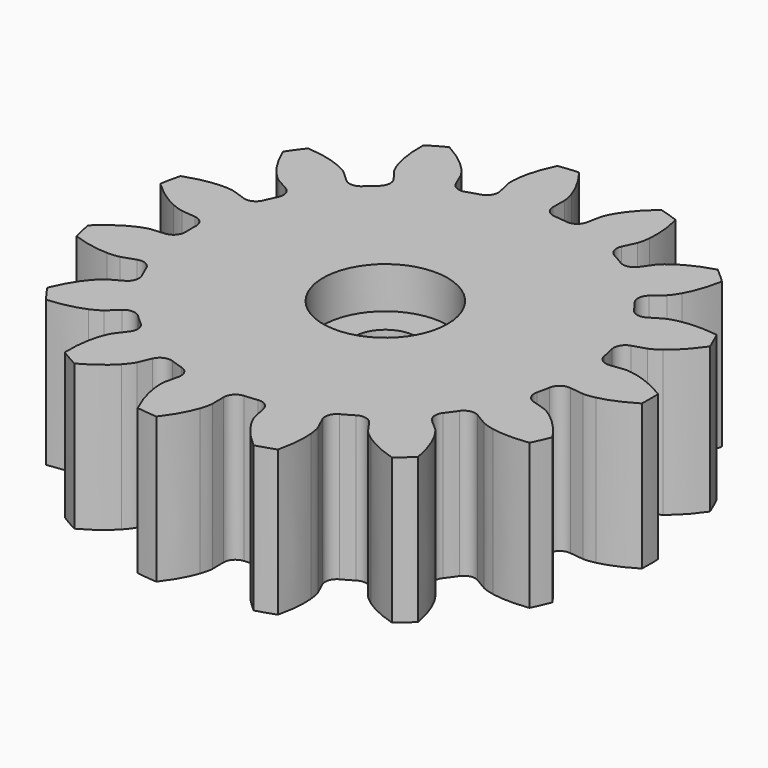
from build123d import *

# Parameters (mm, degrees)
CYLINDER001_R     = 3
CYLINDER001_DEPTH = 10
CYLINDER_R        = 2.5
CYLINDER_DEPTH    = 4
CYLINDER002_R     = 1.5
CYLINDER002_DEPTH = 10
EXTRUDE_DEPTH     = 7


with BuildPart() as cylinder001:
    # Cylinder001 → Cylinder001 (new body)
    with BuildSketch(Plane.XY.offset(5)):
        Circle(CYLINDER001_R)
    extrude(amount=CYLINDER001_DEPTH)


with BuildPart() as fusion:
    # Cylinder → Cylinder (new body)
    with BuildSketch(Plane.XY):
        Circle(CYLINDER_R)
    extrude(amount=CYLINDER_DEPTH)

    # Fusion: union Cylinder001
    add(cylinder001.part)


with BuildPart() as fusion001:
    # Cylinder002 → Cylinder002 (new body)
    with BuildSketch(Plane.XY):
        Circle(CYLINDER002_R)
    extrude(amount=CYLINDER002_DEPTH)

    # Fusion001: union Fusion
    add(fusion.part)


with BuildPart() as cut:
    # InvoluteGear → Extrude (new body)
    with BuildSketch(Plane.XY):
        with BuildLine():
            Line((9.850664, -1.18403), (10.520888, -1.263418))
            add(Edge.make_bspline(
                [(10.520888, -1.263418), (10.586071, -1.266766), (10.782013, -1.268025), (11.110041, -1.194795)],
                knots=[0, 0, 0, 0, 1, 1, 1, 1], degree=3))
            add(Edge.make_bspline(
                [(11.110041, -1.194795), (11.501481, -1.105636), (12.06176, -0.911173), (12.742359, -0.491427)],
                knots=[0, 0, 0, 0, 1, 1, 1, 1], degree=3))
            ThreePointArc((12.742359, -0.491427), (12.751833, 0), (12.742359, 0.491427))
            add(Edge.make_bspline(
                [(12.742359, 0.491427), (12.06176, 0.911173), (11.501481, 1.105636), (11.110041, 1.194795)],
                knots=[0, 0, 0, 0, 1, 1, 1, 1], degree=3))
            add(Edge.make_bspline(
                [(11.110041, 1.194795), (10.782013, 1.268025), (10.586071, 1.266766), (10.520888, 1.263418)],
                knots=[0, 0, 0, 0, 1, 1, 1, 1], degree=3))
            Line((10.520888, 1.263418), (9.850664, 1.18403))
            ThreePointArc((9.850664, 1.18403), (9.449102, 1.290226), (9.229899, 1.643042))
            ThreePointArc((9.229899, 1.643042), (9.170134, 1.949172), (9.100218, 2.253145))
            ThreePointArc((9.100218, 2.253145), (9.156967, 2.664616), (9.480617, 2.92496))
            Line((9.480617, 2.92496), (10.125188, 3.125041))
            add(Edge.make_bspline(
                [(10.125188, 3.125041), (10.186098, 3.148495), (10.365611, 3.227041), (10.635494, 3.427362)],
                knots=[0, 0, 0, 0, 1, 1, 1, 1], degree=3))
            add(Edge.make_bspline(
                [(10.635494, 3.427362), (10.956828, 3.668024), (11.389574, 4.073562), (11.840605, 4.733843)],
                knots=[0, 0, 0, 0, 1, 1, 1, 1], degree=3))
            ThreePointArc((11.840605, 4.733843), (11.649379, 5.186638), (11.440843, 5.631725))
            add(Edge.make_bspline(
                [(11.440843, 5.631725), (10.648359, 5.738358), (10.057423, 5.688123), (9.663561, 5.61036)],
                knots=[0, 0, 0, 0, 1, 1, 1, 1], degree=3))
            add(Edge.make_bspline(
                [(9.663561, 5.61036), (9.334107, 5.543838), (9.155617, 5.462992), (9.097431, 5.43342)],
                knots=[0, 0, 0, 0, 1, 1, 1, 1], degree=3))
            Line((9.097431, 5.43342), (8.51744, 5.088291))
            ThreePointArc((8.51744, 5.088291), (8.107402, 5.021976), (7.763647, 5.255131))
            ThreePointArc((7.763647, 5.255131), (7.584534, 5.510487), (7.397026, 5.759742))
            ThreePointArc((7.397026, 5.759742), (7.281508, 6.158722), (7.471286, 6.528199))
            Line((7.471286, 6.528199), (7.978751, 6.973152))
            add(Edge.make_bspline(
                [(7.978751, 6.973152), (8.024855, 7.019352), (8.156901, 7.164123), (8.321974, 7.456896)],
                knots=[0, 0, 0, 0, 1, 1, 1, 1], degree=3))
            add(Edge.make_bspline(
                [(8.321974, 7.456896), (8.517641, 7.807451), (8.748026, 8.353941), (8.891504, 9.140589)],
                knots=[0, 0, 0, 0, 1, 1, 1, 1], degree=3))
            ThreePointArc((8.891504, 9.140589), (8.532642, 9.476459), (8.161101, 9.798247))
            add(Edge.make_bspline(
                [(8.161101, 9.798247), (7.39376, 9.573328), (6.874345, 9.287081), (6.546163, 9.055843)],
                knots=[0, 0, 0, 0, 1, 1, 1, 1], degree=3))
            add(Edge.make_bspline(
                [(6.546163, 9.055843), (6.272249, 8.861072), (6.142073, 8.714616), (6.100946, 8.663935)],
                knots=[0, 0, 0, 0, 1, 1, 1, 1], degree=3))
            Line((6.100946, 8.663935), (5.711474, 8.112741))
            ThreePointArc((5.711474, 8.112741), (5.363859, 7.885381), (4.95499, 7.958561))
            ThreePointArc((4.95499, 7.958561), (4.6875, 8.118988), (4.414821, 8.270428))
            ThreePointArc((4.414821, 8.270428), (4.147011, 8.587929), (4.170102, 9.002652))
            Line((4.170102, 9.002652), (4.452715, 9.615541))
            add(Edge.make_bspline(
                [(4.452715, 9.615541), (4.476042, 9.6765), (4.537789, 9.862462), (4.569509, 10.197065)],
                knots=[0, 0, 0, 0, 1, 1, 1, 1], degree=3))
            add(Edge.make_bspline(
                [(4.569509, 10.197065), (4.605676, 10.596898), (4.593866, 11.189848), (4.40498, 11.966844)],
                knots=[0, 0, 0, 0, 1, 1, 1, 1], degree=3))
            ThreePointArc((4.40498, 11.966844), (3.940533, 12.127714), (3.470231, 12.270563))
            add(Edge.make_bspline(
                [(3.470231, 12.270563), (2.860712, 11.752984), (2.50263, 11.280219), (2.296874, 10.935489)],
                knots=[0, 0, 0, 0, 1, 1, 1, 1], degree=3))
            add(Edge.make_bspline(
                [(2.296874, 10.935489), (2.125862, 10.646145), (2.06651, 10.459404), (2.049551, 10.396377)],
                knots=[0, 0, 0, 0, 1, 1, 1, 1], degree=3))
            Line((2.049551, 10.396377), (1.917943, 9.734423))
            ThreePointArc((1.917943, 9.734423), (1.692855, 9.385332), (1.28957, 9.285884))
            ThreePointArc((1.28957, 9.285884), (0.979954, 9.323643), (0.669254, 9.351081))
            ThreePointArc((0.669254, 9.351081), (0.295458, 9.532204), (0.147869, 9.920465))
            Line((0.147869, 9.920465), (0.156765, 10.595317))
            add(Edge.make_bspline(
                [(0.156765, 10.595317), (0.153281, 10.660493), (0.134052, 10.855493), (0.026934, 11.174069)],
                knots=[0, 0, 0, 0, 1, 1, 1, 1], degree=3))
            add(Edge.make_bspline(
                [(0.026934, 11.174069), (-0.102652, 11.554045), (-0.354616, 12.090928), (-0.843204, 12.723923)],
                knots=[0, 0, 0, 0, 1, 1, 1, 1], degree=3))
            ThreePointArc((-0.843204, 12.723923), (-1.332929, 12.681977), (-1.820674, 12.621187))
            add(Edge.make_bspline(
                [(-1.820674, 12.621187), (-2.166979, 11.900441), (-2.301812, 11.322904), (-2.349565, 10.924289)],
                knots=[0, 0, 0, 0, 1, 1, 1, 1], degree=3))
            add(Edge.make_bspline(
                [(-2.349565, 10.924289), (-2.388106, 10.590403), (-2.366373, 10.395667), (-2.356229, 10.33119)],
                knots=[0, 0, 0, 0, 1, 1, 1, 1], degree=3))
            Line((-2.356229, 10.33119), (-2.207219, 9.672936))
            ThreePointArc((-2.207219, 9.672936), (-2.270858, 9.262474), (-2.598828, 9.007592))
            ThreePointArc((-2.598828, 9.007592), (-2.897034, 8.916155), (-3.192034, 8.814848))
            ThreePointArc((-3.192034, 8.814848), (-3.607183, 8.828276), (-3.899931, 9.12294))
            Line((-3.899931, 9.12294), (-4.166292, 9.743065))
            add(Edge.make_bspline(
                [(-4.166292, 9.743065), (-4.195984, 9.80119), (-4.292864, 9.97151), (-4.520298, 10.218975)],
                knots=[0, 0, 0, 0, 1, 1, 1, 1], degree=3))
            add(Edge.make_bspline(
                [(-4.520298, 10.218975), (-4.793231, 10.513393), (-5.241781, 10.901377), (-5.945591, 11.28092)],
                knots=[0, 0, 0, 0, 1, 1, 1, 1], degree=3))
            ThreePointArc((-5.945591, 11.28092), (-6.375916, 11.043411), (-6.796768, 10.789493))
            add(Edge.make_bspline(
                [(-6.796768, 10.789493), (-6.819979, 9.990204), (-6.70825, 9.407756), (-6.589743, 9.02418)],
                knots=[0, 0, 0, 0, 1, 1, 1, 1], degree=3))
            add(Edge.make_bspline(
                [(-6.589743, 9.02418), (-6.489149, 8.703485), (-6.390087, 8.534424), (-6.354596, 8.479647)],
                knots=[0, 0, 0, 0, 1, 1, 1, 1], degree=3))
            Line((-6.354596, 8.479647), (-5.950732, 7.93891))
            ThreePointArc((-5.950732, 7.93891), (-5.84192, 7.53805), (-6.037865, 7.171806))
            ThreePointArc((-6.037865, 7.171806), (-6.273099, 6.966983), (-6.50139, 6.754447))
            ThreePointArc((-6.50139, 6.754447), (-6.886109, 6.597858), (-7.273399, 6.747975))
            Line((-7.273399, 6.747975), (-7.768959, 7.206149))
            add(Edge.make_bspline(
                [(-7.768959, 7.206149), (-7.819725, 7.247172), (-7.977505, 7.363362), (-8.285929, 7.496927)],
                knots=[0, 0, 0, 0, 1, 1, 1, 1], degree=3))
            add(Edge.make_bspline(
                [(-8.285929, 7.496927), (-8.655017, 7.654879), (-9.222595, 7.826879), (-10.019931, 7.887343)],
                knots=[0, 0, 0, 0, 1, 1, 1, 1], degree=3))
            ThreePointArc((-10.019931, 7.887343), (-10.31645, 7.495339), (-10.597638, 7.092198))
            add(Edge.make_bspline(
                [(-10.597638, 7.092198), (-10.293743, 6.352571), (-9.95477, 5.865922), (-9.690495, 5.563709)],
                knots=[0, 0, 0, 0, 1, 1, 1, 1], degree=3))
            add(Edge.make_bspline(
                [(-9.690495, 5.563709), (-9.468158, 5.311654), (-9.308898, 5.197501), (-9.254196, 5.161896)],
                knots=[0, 0, 0, 0, 1, 1, 1, 1], degree=3))
            Line((-9.254196, 5.161896), (-8.66531, 4.832174))
            ThreePointArc((-8.66531, 4.832174), (-8.40286, 4.510228), (-8.432901, 4.09595))
            ThreePointArc((-8.432901, 4.09595), (-8.564489, 3.813156), (-8.686596, 3.526141))
            ThreePointArc((-8.686596, 3.526141), (-8.974364, 3.22661), (-9.389229, 3.206225))
            Line((-9.389229, 3.206225), (-10.028302, 3.423225))
            add(Edge.make_bspline(
                [(-10.028302, 3.423225), (-10.091365, 3.440052), (-10.282763, 3.482022), (-10.618848, 3.478593)],
                knots=[0, 0, 0, 0, 1, 1, 1, 1], degree=3))
            add(Edge.make_bspline(
                [(-10.618848, 3.478593), (-11.020271, 3.472768), (-11.608738, 3.399043), (-12.361734, 3.129973)],
                knots=[0, 0, 0, 0, 1, 1, 1, 1], degree=3))
            ThreePointArc((-12.361734, 3.129973), (-12.473175, 2.651255), (-12.566081, 2.168597))
            add(Edge.make_bspline(
                [(-12.566081, 2.168597), (-11.987625, 1.616519), (-11.480021, 1.309817), (-11.115672, 1.141222)],
                knots=[0, 0, 0, 0, 1, 1, 1, 1], degree=3))
            add(Edge.make_bspline(
                [(-11.115672, 1.141222), (-10.810037, 1.001391), (-10.618116, 0.961884), (-10.553661, 0.951606)],
                knots=[0, 0, 0, 0, 1, 1, 1, 1], degree=3))
            Line((-10.553661, 0.951606), (-9.881577, 0.889912))
            ThreePointArc((-9.881577, 0.889912), (-9.51087, 0.702548), (-9.369811, 0.311867))
            ThreePointArc((-9.369811, 0.311867), (-9.375, 0), (-9.369811, -0.311867))
            ThreePointArc((-9.369811, -0.311867), (-9.51087, -0.702548), (-9.881577, -0.889912))
            Line((-9.881577, -0.889912), (-10.553661, -0.951606))
            add(Edge.make_bspline(
                [(-10.553661, -0.951606), (-10.618116, -0.961884), (-10.810037, -1.001391), (-11.115672, -1.141222)],
                knots=[0, 0, 0, 0, 1, 1, 1, 1], degree=3))
            add(Edge.make_bspline(
                [(-11.115672, -1.141222), (-11.480021, -1.309817), (-11.987625, -1.616519), (-12.566081, -2.168597)],
                knots=[0, 0, 0, 0, 1, 1, 1, 1], degree=3))
            ThreePointArc((-12.566081, -2.168597), (-12.473175, -2.651255), (-12.361734, -3.129973))
            add(Edge.make_bspline(
                [(-12.361734, -3.129973), (-11.608738, -3.399043), (-11.020271, -3.472768), (-10.618848, -3.478593)],
                knots=[0, 0, 0, 0, 1, 1, 1, 1], degree=3))
            add(Edge.make_bspline(
                [(-10.618848, -3.478593), (-10.282763, -3.482022), (-10.091365, -3.440052), (-10.028302, -3.423225)],
                knots=[0, 0, 0, 0, 1, 1, 1, 1], degree=3))
            Line((-10.028302, -3.423225), (-9.389229, -3.206225))
            ThreePointArc((-9.389229, -3.206225), (-8.974364, -3.22661), (-8.686596, -3.526141))
            ThreePointArc((-8.686596, -3.526141), (-8.564489, -3.813156), (-8.432901, -4.09595))
            ThreePointArc((-8.432901, -4.09595), (-8.40286, -4.510228), (-8.66531, -4.832174))
            Line((-8.66531, -4.832174), (-9.254196, -5.161896))
            add(Edge.make_bspline(
                [(-9.254196, -5.161896), (-9.308898, -5.197501), (-9.468158, -5.311654), (-9.690495, -5.563709)],
                knots=[0, 0, 0, 0, 1, 1, 1, 1], degree=3))
            add(Edge.make_bspline(
                [(-9.690495, -5.563709), (-9.95477, -5.865922), (-10.293743, -6.352571), (-10.597638, -7.092198)],
                knots=[0, 0, 0, 0, 1, 1, 1, 1], degree=3))
            ThreePointArc((-10.597638, -7.092198), (-10.31645, -7.495339), (-10.019931, -7.887343))
            add(Edge.make_bspline(
                [(-10.019931, -7.887343), (-9.222595, -7.826879), (-8.655017, -7.654879), (-8.285929, -7.496927)],
                knots=[0, 0, 0, 0, 1, 1, 1, 1], degree=3))
            add(Edge.make_bspline(
                [(-8.285929, -7.496927), (-7.977505, -7.363362), (-7.819725, -7.247172), (-7.768959, -7.206149)],
                knots=[0, 0, 0, 0, 1, 1, 1, 1], degree=3))
            Line((-7.768959, -7.206149), (-7.273399, -6.747975))
            ThreePointArc((-7.273399, -6.747975), (-6.886109, -6.597858), (-6.50139, -6.754447))
            ThreePointArc((-6.50139, -6.754447), (-6.273099, -6.966983), (-6.037865, -7.171806))
            ThreePointArc((-6.037865, -7.171806), (-5.84192, -7.53805), (-5.950732, -7.93891))
            Line((-5.950732, -7.93891), (-6.354596, -8.479647))
            add(Edge.make_bspline(
                [(-6.354596, -8.479647), (-6.390087, -8.534424), (-6.489149, -8.703485), (-6.589743, -9.02418)],
                knots=[0, 0, 0, 0, 1, 1, 1, 1], degree=3))
            add(Edge.make_bspline(
                [(-6.589743, -9.02418), (-6.70825, -9.407756), (-6.819979, -9.990204), (-6.796768, -10.789493)],
                knots=[0, 0, 0, 0, 1, 1, 1, 1], degree=3))
            ThreePointArc((-6.796768, -10.789493), (-6.375916, -11.043411), (-5.945591, -11.28092))
            add(Edge.make_bspline(
                [(-5.945591, -11.28092), (-5.241781, -10.901377), (-4.793231, -10.513393), (-4.520298, -10.218975)],
                knots=[0, 0, 0, 0, 1, 1, 1, 1], degree=3))
            add(Edge.make_bspline(
                [(-4.520298, -10.218975), (-4.292864, -9.97151), (-4.195984, -9.80119), (-4.166292, -9.743065)],
                knots=[0, 0, 0, 0, 1, 1, 1, 1], degree=3))
            Line((-4.166292, -9.743065), (-3.899931, -9.12294))
            ThreePointArc((-3.899931, -9.12294), (-3.607183, -8.828276), (-3.192034, -8.814848))
            ThreePointArc((-3.192034, -8.814848), (-2.897034, -8.916155), (-2.598828, -9.007592))
            ThreePointArc((-2.598828, -9.007592), (-2.270858, -9.262474), (-2.207219, -9.672936))
            Line((-2.207219, -9.672936), (-2.356229, -10.33119))
            add(Edge.make_bspline(
                [(-2.356229, -10.33119), (-2.366373, -10.395667), (-2.388106, -10.590403), (-2.349565, -10.924289)],
                knots=[0, 0, 0, 0, 1, 1, 1, 1], degree=3))
            add(Edge.make_bspline(
                [(-2.349565, -10.924289), (-2.301812, -11.322904), (-2.166979, -11.900441), (-1.820674, -12.621187)],
                knots=[0, 0, 0, 0, 1, 1, 1, 1], degree=3))
            ThreePointArc((-1.820674, -12.621187), (-1.332929, -12.681977), (-0.843204, -12.723923))
            add(Edge.make_bspline(
                [(-0.843204, -12.723923), (-0.354616, -12.090928), (-0.102652, -11.554045), (0.026934, -11.174069)],
                knots=[0, 0, 0, 0, 1, 1, 1, 1], degree=3))
            add(Edge.make_bspline(
                [(0.026934, -11.174069), (0.134052, -10.855493), (0.153281, -10.660493), (0.156765, -10.595317)],
                knots=[0, 0, 0, 0, 1, 1, 1, 1], degree=3))
            Line((0.156765, -10.595317), (0.147869, -9.920465))
            ThreePointArc((0.147869, -9.920465), (0.295458, -9.532204), (0.669254, -9.351081))
            ThreePointArc((0.669254, -9.351081), (0.979954, -9.323643), (1.28957, -9.285884))
            ThreePointArc((1.28957, -9.285884), (1.692855, -9.385332), (1.917943, -9.734423))
            Line((1.917943, -9.734423), (2.049551, -10.396377))
            add(Edge.make_bspline(
                [(2.049551, -10.396377), (2.06651, -10.459404), (2.125862, -10.646145), (2.296874, -10.935489)],
                knots=[0, 0, 0, 0, 1, 1, 1, 1], degree=3))
            add(Edge.make_bspline(
                [(2.296874, -10.935489), (2.50263, -11.280219), (2.860712, -11.752984), (3.470231, -12.270563)],
                knots=[0, 0, 0, 0, 1, 1, 1, 1], degree=3))
            ThreePointArc((3.470231, -12.270563), (3.940533, -12.127714), (4.40498, -11.966844))
            add(Edge.make_bspline(
                [(4.40498, -11.966844), (4.593866, -11.189848), (4.605676, -10.596898), (4.569509, -10.197065)],
                knots=[0, 0, 0, 0, 1, 1, 1, 1], degree=3))
            add(Edge.make_bspline(
                [(4.569509, -10.197065), (4.537789, -9.862462), (4.476042, -9.6765), (4.452715, -9.615541)],
                knots=[0, 0, 0, 0, 1, 1, 1, 1], degree=3))
            Line((4.452715, -9.615541), (4.170102, -9.002652))
            ThreePointArc((4.170102, -9.002652), (4.147011, -8.587929), (4.414821, -8.270428))
            ThreePointArc((4.414821, -8.270428), (4.6875, -8.118988), (4.95499, -7.958561))
            ThreePointArc((4.95499, -7.958561), (5.363859, -7.885381), (5.711474, -8.112741))
            Line((5.711474, -8.112741), (6.100946, -8.663935))
            add(Edge.make_bspline(
                [(6.100946, -8.663935), (6.142073, -8.714616), (6.272249, -8.861072), (6.546163, -9.055843)],
                knots=[0, 0, 0, 0, 1, 1, 1, 1], degree=3))
            add(Edge.make_bspline(
                [(6.546163, -9.055843), (6.874345, -9.287081), (7.39376, -9.573328), (8.161101, -9.798247)],
                knots=[0, 0, 0, 0, 1, 1, 1, 1], degree=3))
            ThreePointArc((8.161101, -9.798247), (8.532642, -9.476459), (8.891504, -9.140589))
            add(Edge.make_bspline(
                [(8.891504, -9.140589), (8.748026, -8.353941), (8.517641, -7.807451), (8.321974, -7.456896)],
                knots=[0, 0, 0, 0, 1, 1, 1, 1], degree=3))
            add(Edge.make_bspline(
                [(8.321974, -7.456896), (8.156901, -7.164123), (8.024855, -7.019352), (7.978751, -6.973152)],
                knots=[0, 0, 0, 0, 1, 1, 1, 1], degree=3))
            Line((7.978751, -6.973152), (7.471286, -6.528199))
            ThreePointArc((7.471286, -6.528199), (7.281508, -6.158722), (7.397026, -5.759742))
            ThreePointArc((7.397026, -5.759742), (7.584534, -5.510487), (7.763647, -5.255131))
            ThreePointArc((7.763647, -5.255131), (8.107402, -5.021976), (8.51744, -5.088291))
            Line((8.51744, -5.088291), (9.097431, -5.43342))
            add(Edge.make_bspline(
                [(9.097431, -5.43342), (9.155617, -5.462992), (9.334107, -5.543838), (9.663561, -5.61036)],
                knots=[0, 0, 0, 0, 1, 1, 1, 1], degree=3))
            add(Edge.make_bspline(
                [(9.663561, -5.61036), (10.057423, -5.688123), (10.648359, -5.738358), (11.440843, -5.631725)],
                knots=[0, 0, 0, 0, 1, 1, 1, 1], degree=3))
            ThreePointArc((11.440843, -5.631725), (11.649379, -5.186638), (11.840605, -4.733843))
            add(Edge.make_bspline(
                [(11.840605, -4.733843), (11.389574, -4.073562), (10.956828, -3.668024), (10.635494, -3.427362)],
                knots=[0, 0, 0, 0, 1, 1, 1, 1], degree=3))
            add(Edge.make_bspline(
                [(10.635494, -3.427362), (10.365611, -3.227041), (10.186098, -3.148495), (10.125188, -3.125041)],
                knots=[0, 0, 0, 0, 1, 1, 1, 1], degree=3))
            Line((10.125188, -3.125041), (9.480617, -2.92496))
            ThreePointArc((9.480617, -2.92496), (9.156967, -2.664616), (9.100218, -2.253145))
            ThreePointArc((9.100218, -2.253145), (9.170134, -1.949172), (9.229899, -1.643042))
            ThreePointArc((9.229899, -1.643042), (9.449102, -1.290226), (9.850664, -1.18403))
        make_face()
    extrude(amount=EXTRUDE_DEPTH)

    # Cut: cut Fusion001
    add(fusion001.part, mode=Mode.SUBTRACT)


solid = cut.part
